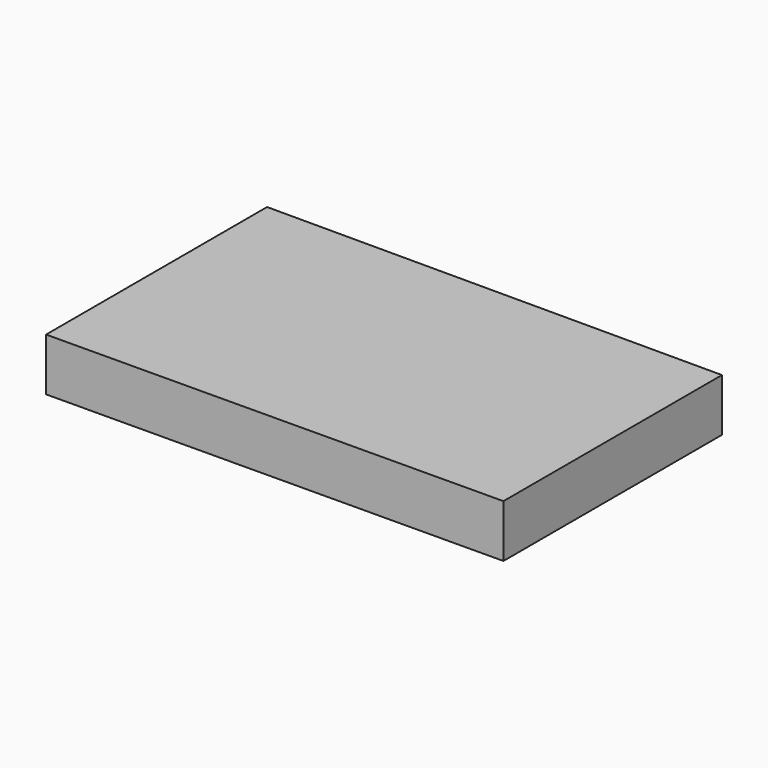
from build123d import *

# Parameters (mm, degrees)
F1_DEPTH = 12.5


with BuildPart() as f1:
    # F0 (on Top) → F1 (new body, symmetric)
    with BuildSketch(Plane.XY):
        Polygon((-122.445986, 60.02586), (-122.445986, -71.036182), (93.4036, -69.566421), (93.4036, 60.02586), align=None)
    extrude(amount=F1_DEPTH, both=True)


solid = f1.part
